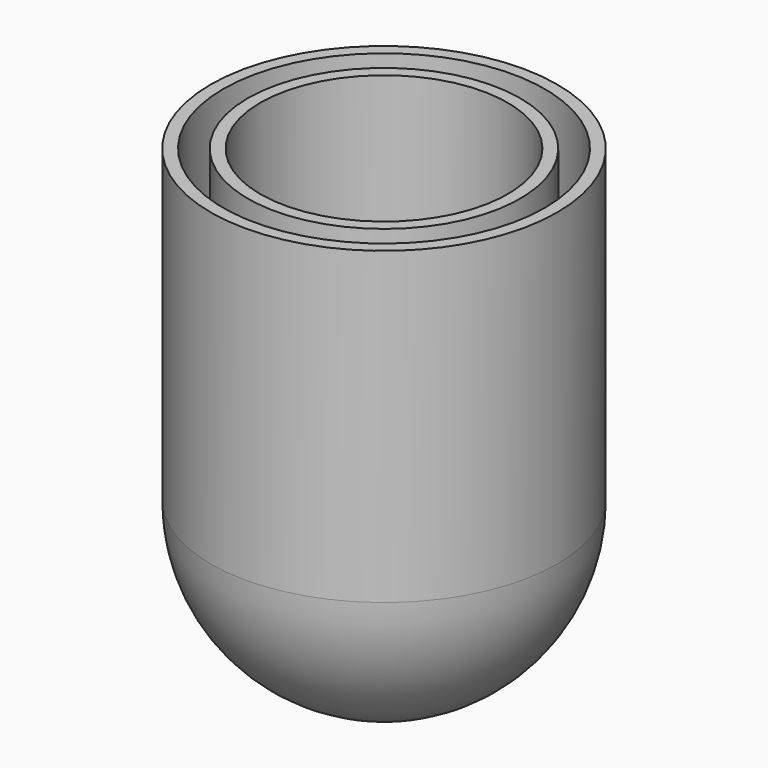
from build123d import *

# Parameters (mm, degrees)
F0_W = 2.5
F0_H = 5


with BuildPart() as f1:
    # F0 (on Front) → F1 (revolve)
    with BuildSketch(Plane.XZ):
        with Locations((-26.25, 60.0437200069)):
            Rectangle(F0_W, F0_H)
        with BuildLine():
            ThreePointArc((-3.0000000261, -24.8193472888), (-18.7082869426, -16.5831239419), (-25, 0))
            Line((-25, 0), (-25, 57.5437200069))
            Line((-25, 57.5437200069), (-27.5, 57.5437200069))
            Line((-27.5, 57.5437200069), (-27.5, 0))
            ThreePointArc((-27.5, 0), (-20.478647425, -18.3541548332), (-3.0000000261, -27.3358738628))
            Line((-3.0000000261, -27.3358738628), (-3.0000000261, -24.8193472888))
        make_face()
    revolve(axis=Axis((0, 0, 9.7777000327), (0, 0, -1)))


with BuildPart() as f1b:
    # F0 (on Front) → F1, piece 2 (revolve)
    with BuildSketch(Plane.XZ):
        with Locations((-33.75, 60.0437200069)):
            Rectangle(F0_W, F0_H)
        with BuildLine():
            Line((-3.0000000261, -34.8711915461), (-3.0000000261, -32.3612422482))
            ThreePointArc((-3.0000000261, -32.3612422482), (-24.0182222578, -21.8946340361), (-32.5, 0))
            Line((-32.5, 0), (-32.5, 57.5437200069))
            Line((-32.5, 57.5437200069), (-35, 57.5437200069))
            Line((-35, 57.5437200069), (-35, 0))
            ThreePointArc((-35, 0), (-25.7875939253, -23.6643191228), (-3.0000000261, -34.8711915461))
        make_face()
    revolve(axis=Axis((0, 0, 9.7777000327), (0, 0, -1)))


solid = Compound([f1.part, f1b.part])
